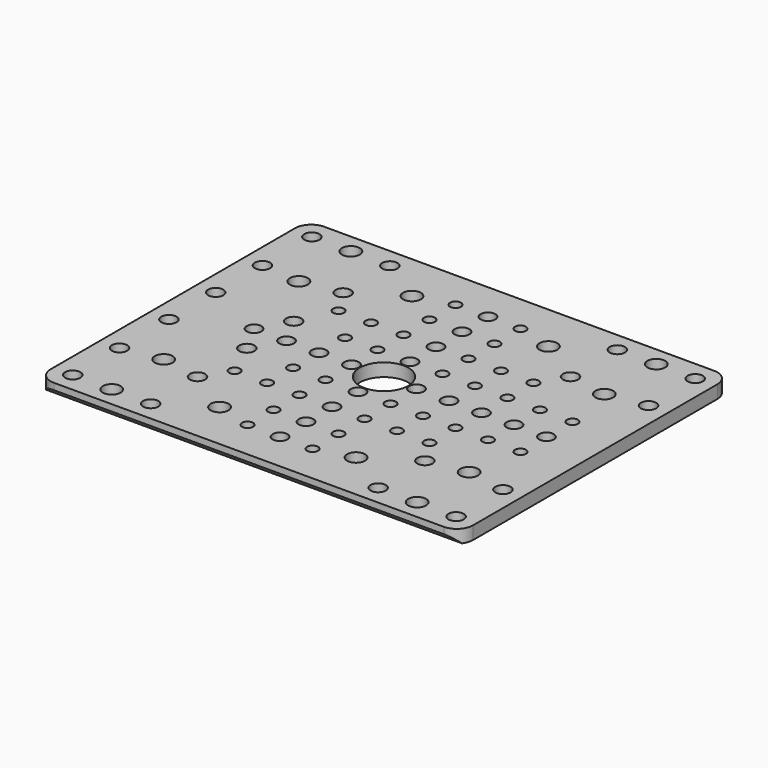
from build123d import *

# Parameters (mm, degrees)
SKETCH_W        = 130
SKETCH_H        = 104
PAD_DEPTH       = 4
SKETCH001_R     = 2.35
SKETCH001_R_2   = 2.75
POCKET_DEPTH    = 4.001
SKETCH002_R     = 1.7
SKETCH002_R_2   = 2.25
SKETCH002_R_3   = 7.5
POCKET001_DEPTH = 5
CHAMFER_SIZE    = 2
FILLET_R        = 5


with BuildPart() as part:
    # Sketch → Pad (new body)
    with BuildSketch(Plane.XY):
        Rectangle(SKETCH_W, SKETCH_H)
    extrude(amount=PAD_DEPTH)

    # Sketch001 → Pocket (cut, through all)
    with BuildSketch(Plane.XY.offset(4)):
        with Locations((-35, 46)):
            Circle(SKETCH001_R)
        with Locations((-59, 27)):
            Circle(SKETCH001_R)
        with Locations((-59, 46)):
            Circle(SKETCH001_R)
        with Locations((35, 46)):
            Circle(SKETCH001_R)
        with Locations((59, 28)):
            Circle(SKETCH001_R)
        with Locations((59, 46)):
            Circle(SKETCH001_R)
        with Locations((59, -28)):
            Circle(SKETCH001_R)
        with Locations((59, -46)):
            Circle(SKETCH001_R)
        with Locations((35, -46)):
            Circle(SKETCH001_R)
        with Locations((-59, -28)):
            Circle(SKETCH001_R)
        with Locations((-35, -46)):
            Circle(SKETCH001_R)
        with Locations((-59, -46)):
            Circle(SKETCH001_R)
        with Locations((-47, 46)):
            Circle(SKETCH001_R_2)
        with Locations((-47, 26)):
            Circle(SKETCH001_R_2)
        with Locations((47, 46)):
            Circle(SKETCH001_R_2)
        with Locations((47, 26)):
            Circle(SKETCH001_R_2)
        with Locations((-21, -37)):
            Circle(SKETCH001_R_2)
        with Locations((21, -37)):
            Circle(SKETCH001_R_2)
        with Locations((-21, 37)):
            Circle(SKETCH001_R_2)
        with Locations((21, 37)):
            Circle(SKETCH001_R_2)
        with Locations((47, -46)):
            Circle(SKETCH001_R_2)
        with Locations((47, -26)):
            Circle(SKETCH001_R_2)
        with Locations((-47, -26)):
            Circle(SKETCH001_R_2)
        with Locations((-47, -46)):
            Circle(SKETCH001_R_2)
        with Locations((-35, 28)):
            Circle(SKETCH001_R)
        with Locations((35, 28)):
            Circle(SKETCH001_R)
        with Locations((35, -28)):
            Circle(SKETCH001_R)
        with Locations((-35, -28)):
            Circle(SKETCH001_R)
        with Locations((-59, 9)):
            Circle(SKETCH001_R)
        with Locations((-59, -9)):
            Circle(SKETCH001_R)
        with Locations((-35, 9)):
            Circle(SKETCH001_R)
        with Locations((-35, -9)):
            Circle(SKETCH001_R)
    extrude(amount=-POCKET_DEPTH, mode=Mode.SUBTRACT)

    # Sketch002 → Pocket001 (cut)
    with BuildSketch(Plane.XY.offset(4)):
        with Locations((-10, 10)):
            Circle(SKETCH002_R)
        with Locations((-20, 10)):
            Circle(SKETCH002_R)
        with Locations((-10, 0)):
            Circle(SKETCH002_R_2)
        with Locations((-20, 0)):
            Circle(SKETCH002_R_2)
        with Locations((-10, -10)):
            Circle(SKETCH002_R)
        with Locations((-20, -10)):
            Circle(SKETCH002_R)
        with Locations((-30, 0)):
            Circle(SKETCH002_R_2)
        with Locations((-40, 0)):
            Circle(SKETCH002_R_2)
        with Locations((10, 10)):
            Circle(SKETCH002_R)
        with Locations((10, -10)):
            Circle(SKETCH002_R)
        with Locations((20, -10)):
            Circle(SKETCH002_R)
        with Locations((20, 10)):
            Circle(SKETCH002_R)
        with Locations((30, 10)):
            Circle(SKETCH002_R)
        with Locations((40, 10)):
            Circle(SKETCH002_R)
        with Locations((30, -10)):
            Circle(SKETCH002_R)
        with Locations((40, -10)):
            Circle(SKETCH002_R)
        with Locations((-10, 20)):
            Circle(SKETCH002_R)
        with Locations((-20, 20)):
            Circle(SKETCH002_R)
        with Locations((10, 20)):
            Circle(SKETCH002_R)
        with Locations((20, 20)):
            Circle(SKETCH002_R)
        with Locations((20, -20)):
            Circle(SKETCH002_R)
        with Locations((10, -20)):
            Circle(SKETCH002_R)
        with Locations((-10, -20)):
            Circle(SKETCH002_R)
        with Locations((-20, -20)):
            Circle(SKETCH002_R)
        with Locations((-10, 30)):
            Circle(SKETCH002_R)
        with Locations((-10, 40)):
            Circle(SKETCH002_R)
        with Locations((10, 40)):
            Circle(SKETCH002_R)
        with Locations((10, 30)):
            Circle(SKETCH002_R)
        with Locations((10, -30)):
            Circle(SKETCH002_R)
        with Locations((-10, -30)):
            Circle(SKETCH002_R)
        with Locations((-10, -40)):
            Circle(SKETCH002_R)
        with Locations((10, -40)):
            Circle(SKETCH002_R)
        with Locations((0, 40)):
            Circle(SKETCH002_R_2)
        with Locations((0, 30)):
            Circle(SKETCH002_R_2)
        with Locations((0, 20)):
            Circle(SKETCH002_R_2)
        with Locations((0, 10)):
            Circle(SKETCH002_R_2)
        with Locations((0, -10)):
            Circle(SKETCH002_R_2)
        with Locations((0, -20)):
            Circle(SKETCH002_R_2)
        with Locations((0, -30)):
            Circle(SKETCH002_R_2)
        with Locations((0, -40)):
            Circle(SKETCH002_R_2)
        with Locations((10, 0)):
            Circle(SKETCH002_R_2)
        with Locations((20, 0)):
            Circle(SKETCH002_R_2)
        with Locations((30, 0)):
            Circle(SKETCH002_R_2)
        with Locations((40, 0)):
            Circle(SKETCH002_R_2)
        with Locations((50, 0)):
            Circle(SKETCH002_R_2)
        with Locations((50, 10)):
            Circle(SKETCH002_R)
        with Locations((50, -10)):
            Circle(SKETCH002_R)
        with Locations((-30, 20)):
            Circle(SKETCH002_R)
        with Locations((-30, -20)):
            Circle(SKETCH002_R)
        with Locations((30, 20)):
            Circle(SKETCH002_R)
        with Locations((30, -20)):
            Circle(SKETCH002_R)
        Circle(SKETCH002_R_3)
    extrude(amount=-POCKET001_DEPTH, mode=Mode.SUBTRACT)

    # Chamfer
    chamfer_edges = [part.edges().sort_by_distance(p)[0] for p in [
        (0, -52, 0),
    ]]
    chamfer(chamfer_edges, length=CHAMFER_SIZE)

    # Fillet
    fillet_edges = [part.edges().sort_by_distance(p)[0] for p in [
        (-65, 52, 2),
        (-65, -52, 3),
        (65, -52, 3),
        (65, 52, 2),
    ]]
    fillet(fillet_edges, radius=FILLET_R)


solid = part.part
